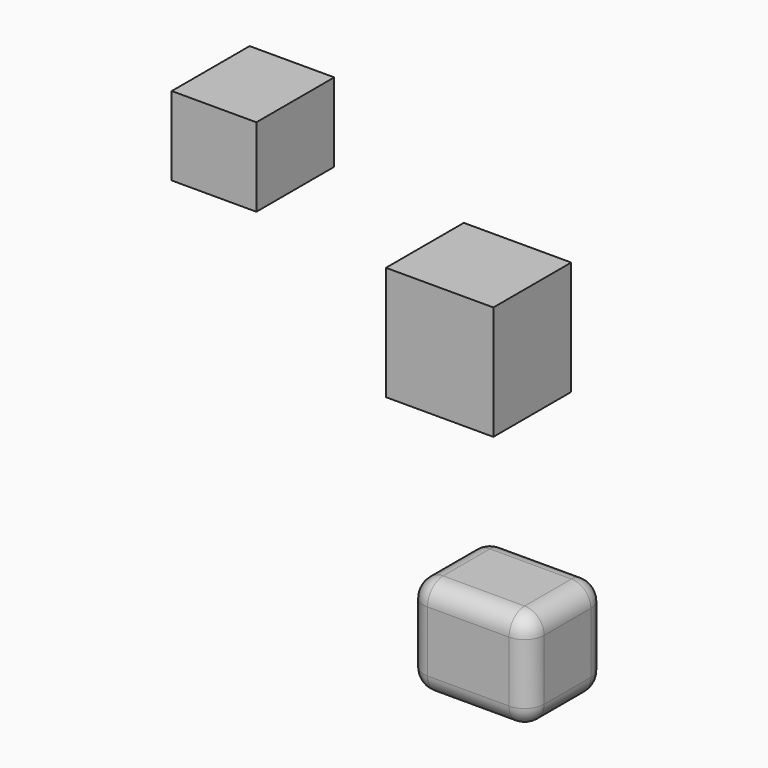
from build123d import *

# Parameters (mm, degrees)
F0_W     = 21.7422489077
F0_H     = 20.2370174229
F1_DEPTH = 25
F0_W_2   = 27.5959298015
F0_H_2   = 29.2684142478
F0_W_3   = 24.0837205201
F0_H_3   = 16.2230618298
F0_W_4   = 30.9408959001
F0_H_4   = 25.5889557302
F3_R     = 5


with BuildPart() as f1:
    # F0 (on Front) → F1 (new body)
    with BuildSketch(Plane.XZ):
        with Locations((-28.0976770446, 46.1672451347)):
            Rectangle(F0_W, F0_H)
    extrude(amount=F1_DEPTH)


with BuildPart() as f1b:
    # F0 (on Front) → F1, piece 2 (new body)
    with BuildSketch(Plane.XZ):
        with Locations((29.8537798226, 19.574802136)):
            Rectangle(F0_W_2, F0_H_2)
    extrude(amount=F1_DEPTH)


with BuildPart() as f1c:
    # F0 (on Front) → F1, piece 3 (new body)
    with BuildSketch(Plane.XZ):
        with Locations((-22.4112411961, -41.4707455784)):
            Rectangle(F0_W_3, F0_H_3)
    extrude(amount=F1_DEPTH)


with BuildPart() as f1d:
    # F0 (on Front) → F1, piece 4 (new body)
    with BuildSketch(Plane.XZ):
        with Locations((37.2126968578, -46.8226838857)):
            Rectangle(F0_W_4, F0_H_4)
    extrude(amount=F1_DEPTH)

    # F3
    f3_edges = [f1d.edges().sort_by_distance(p)[0] for p in [
        (37.212697, -25, -59.617162),
        (52.683145, -25, -46.822684),
        (37.212697, -25, -34.028206),
        (37.212697, 0, -59.617162),
        (21.742249, -25, -46.822684),
        (52.683145, -12.5, -34.028206),
        (37.212697, 0, -34.028206),
        (52.683145, -12.5, -59.617162),
        (52.683145, 0, -46.822684),
        (21.742249, 0, -46.822684),
        (21.742249, -12.5, -59.617162),
        (21.742249, -12.5, -34.028206),
    ]]
    fillet(f3_edges, radius=F3_R)


solid = Compound([f1.part, f1b.part, f1d.part])
